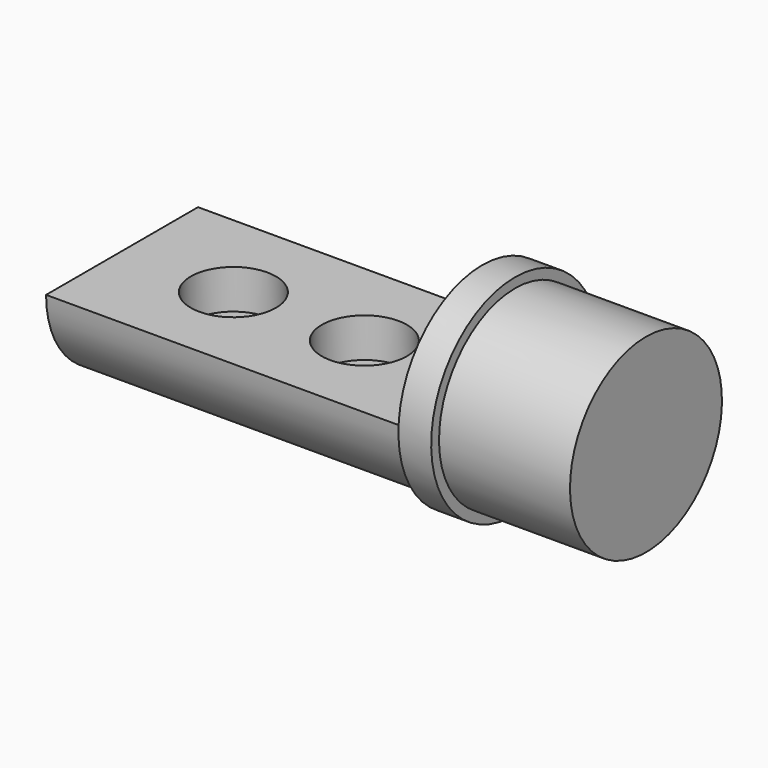
from build123d import *

# Parameters (mm, degrees)
F0_W     = 55
F0_H     = 14.5
F3_DEPTH = 55
F4_R     = 4
F5_DEPTH = 16.001
F7_DEPTH = 55
F4_R_2   = 6.5
F8_DEPTH = 6


with BuildPart() as f1:
    # F0 (on Front) → F1 (revolve)
    with BuildSketch(Plane.XZ):
        with Locations((-27.5, 7.25)):
            Rectangle(F0_W, F0_H)
        Polygon((0, 16), (0, 14.5), (0, 0), (25, 0), (25, 14.5), (5, 14.5), (5, 16), align=None)
    revolve(axis=Axis((-15, 0, 0), (-1, 0, 0)))

    # F2 (on face) → F3 (cut)
    with BuildSketch(Plane(origin=(-55, 0, 0), x_dir=(0, -1, 0), z_dir=(-1, 0, 0))):
        with BuildLine():
            ThreePointArc((14.5, 0), (0, 14.5), (-14.5, 0))
            Line((-14.5, 0), (14.5, 0))
        make_face()
    extrude(amount=-F3_DEPTH, mode=Mode.SUBTRACT)

    # F4 (on face) → F5 (cut, through all)
    with BuildSketch(Plane.XY):
        with Locations((-38, 0)):
            Circle(F4_R)
        with Locations((-18, 0)):
            Circle(F4_R)
    extrude(amount=-F5_DEPTH, mode=Mode.SUBTRACT)

    # F6 (on face) → F7 (cut)
    with BuildSketch(Plane(origin=(-55, 0, 0), x_dir=(0, -1, 0), z_dir=(-1, 0, 0))):
        with BuildLine():
            ThreePointArc((-5.546382, -13.3973), (0.699618, -14.483112), (6.811879, -12.800325))
            Line((6.811879, -12.800325), (6.811879, -11.710467))
            Line((6.811879, -11.710467), (-5.546382, -11.710467))
            Line((-5.546382, -11.710467), (-5.546382, -13.3973))
        make_face()
    extrude(amount=-F7_DEPTH, mode=Mode.SUBTRACT)

    # F4 (on face) → F8 (cut)
    with BuildSketch(Plane.XY):
        with Locations((-38, 0)):
            Circle(F4_R_2)
        with Locations((-38, 0)):
            Circle(F4_R, mode=Mode.SUBTRACT)
        with Locations((-18, 0)):
            Circle(F4_R_2)
        with Locations((-18, 0)):
            Circle(F4_R, mode=Mode.SUBTRACT)
    extrude(amount=-F8_DEPTH, mode=Mode.SUBTRACT)


solid = f1.part
